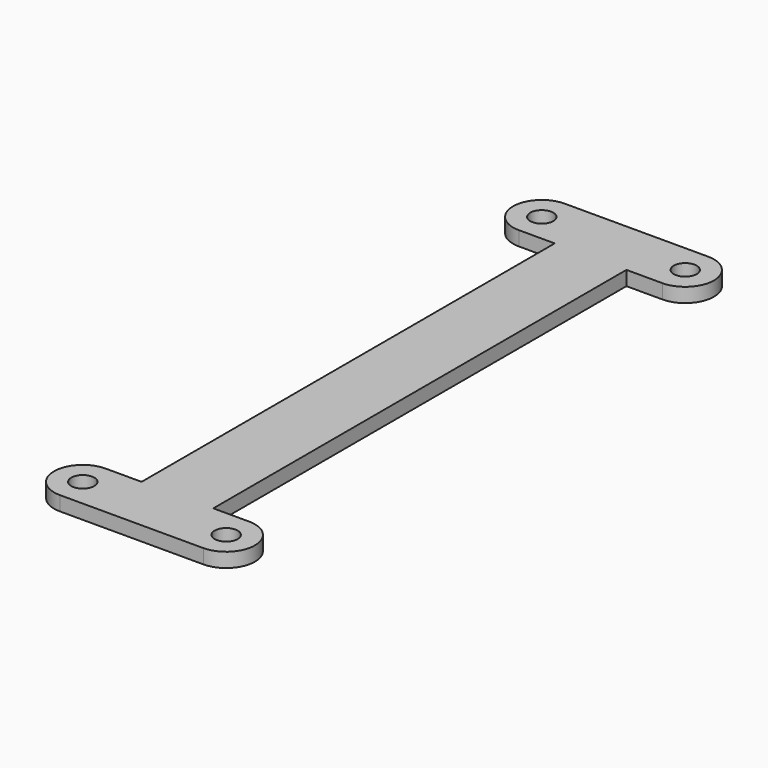
from build123d import *

# Parameters (mm, degrees)
SKETCH_R  = 1.6
PAD_DEPTH = 2


with BuildPart() as part:
    # Sketch → Pad (new body)
    with BuildSketch(Plane.XY):
        with BuildLine():
            ThreePointArc((-10, 44), (-14, 40), (-10, 36))
            Line((-10, 36), (-5, 36))
            Line((-5, 36), (-5, -36))
            Line((-10, -36), (-5, -36))
            ThreePointArc((-10, -36), (-14, -40), (-10, -44))
            Line((-10, -44), (10, -44))
            ThreePointArc((10, -44), (14, -40), (10, -36))
            Line((10, -36), (5, -36))
            Line((5, -36), (5, 36))
            Line((10, 36), (5, 36))
            ThreePointArc((10, 36), (14, 40), (10, 44))
            Line((-10, 44), (10, 44))
        make_face()
        with Locations((10, 40)):
            Circle(SKETCH_R, mode=Mode.SUBTRACT)
        with Locations((-10, 40)):
            Circle(SKETCH_R, mode=Mode.SUBTRACT)
        with Locations((-10, -40)):
            Circle(SKETCH_R, mode=Mode.SUBTRACT)
        with Locations((10, -40)):
            Circle(SKETCH_R, mode=Mode.SUBTRACT)
    extrude(amount=PAD_DEPTH)


solid = part.part
